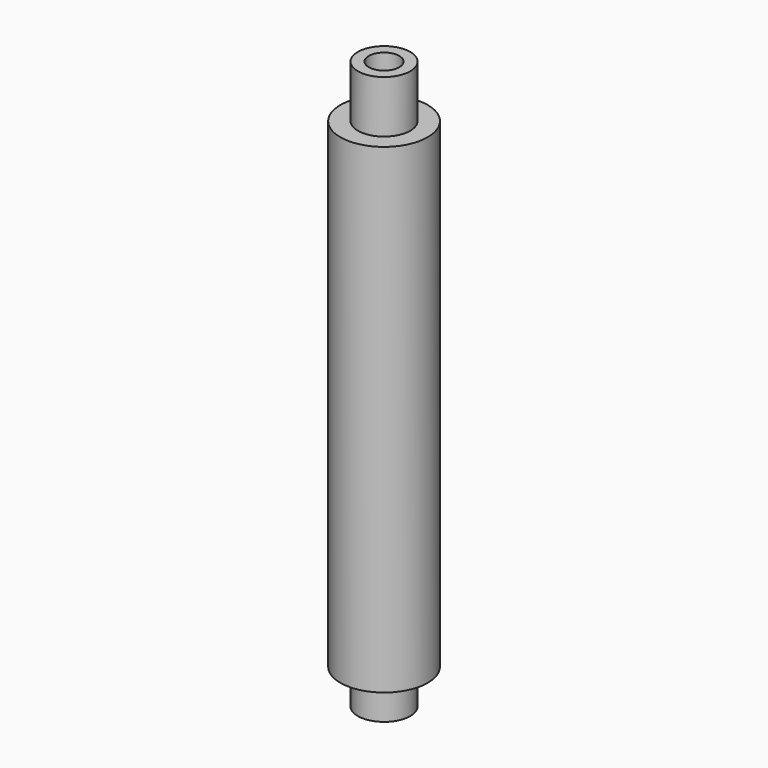
from build123d import *

# Parameters (mm, degrees)
F0_R          = 3
F1_DEPTH      = 61
F1_DEPTH_BACK = 4
F0_R_2        = 5
F2_DEPTH      = 55
F5_D          = 2.5
F5_DEPTH      = 8
F5_TIP        = 0.7510757738
F6_D          = 3.5
F6_DEPTH      = 8
F6_TIP        = 1.0515060833


with BuildPart() as f1:
    # F0 (on Top) → F1 (new body, two sides)
    with BuildSketch(Plane.XY) as f1_sk:
        Circle(F0_R)
    extrude(amount=F1_DEPTH)
    extrude(f1_sk.sketch, amount=-F1_DEPTH_BACK)

    # F0 (on Top) → F2 (join)
    with BuildSketch(Plane.XY):
        Circle(F0_R_2)
        Circle(F0_R, mode=Mode.SUBTRACT)
    extrude(amount=F2_DEPTH)

    # F5
    with Locations(Plane(origin=(0, 0, -4), x_dir=(1, 0, 0), z_dir=(0, 0, -1))):
        with Locations((0, 0)):
            Hole(F5_D / 2, depth=F5_DEPTH)
            with Locations((0, 0, -(F5_DEPTH + F5_TIP / 2))):  # 118° drill point
                Cone(0, F5_D / 2, F5_TIP, mode=Mode.SUBTRACT)

    # F6
    with Locations(Plane.XY.offset(61)):
        with Locations((0, 0)):
            Hole(F6_D / 2, depth=F6_DEPTH)
            with Locations((0, 0, -(F6_DEPTH + F6_TIP / 2))):  # 118° drill point
                Cone(0, F6_D / 2, F6_TIP, mode=Mode.SUBTRACT)


solid = f1.part
